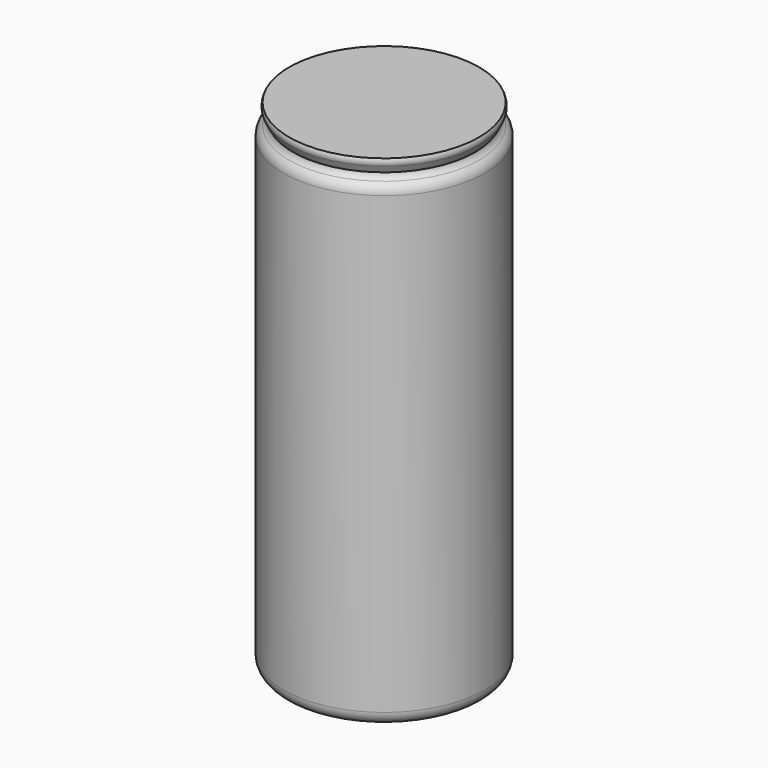
from build123d import *

# Parameters (mm, degrees)
F0_R     = 36.957
F1_DEPTH = 172.4406
F4_R     = 5.08


with BuildPart() as f1:
    # F0 (on Top) → F1 (new body)
    with BuildSketch(Plane.XY):
        Circle(F0_R)
    extrude(amount=F1_DEPTH)

    # F2 (on Front) → F3 (revolve)
    with BuildSketch(Plane.XZ):
        with BuildLine():
            Line((0, 172.4406), (36.957, 172.4406))
            ThreePointArc((36.957, 172.4406), (36.417433, 174.497665), (34.937665, 176.02506))
            ThreePointArc((34.937665, 176.02506), (33.979759, 176.943029), (33.5026, 178.181))
            Line((33.5026, 178.181), (34.937665, 180.924344))
            ThreePointArc((34.937665, 180.924344), (35.249759, 182.194272), (34.937665, 183.4642))
            Line((34.937665, 183.4642), (0, 183.4642))
            Line((0, 183.4642), (0, 172.4406))
        make_face()
    revolve(axis=Axis((0, 0, 177.9524), (0, 0, -1)))

    # F4
    f4_edges = [f1.edges().sort_by_distance(p)[0] for p in [
        (-36.957, 0, 0),
    ]]
    fillet(f4_edges, radius=F4_R)


solid = f1.part
